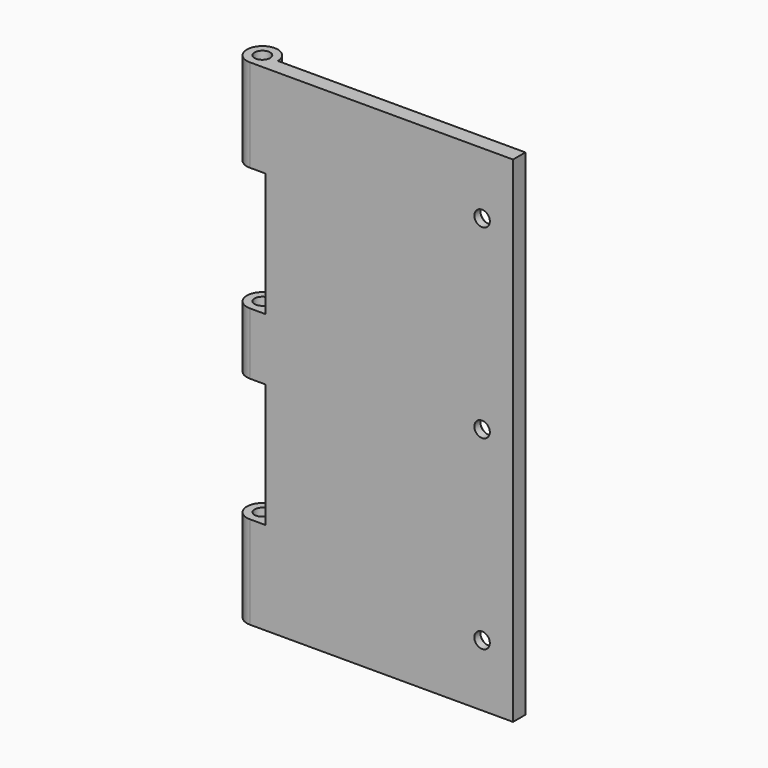
from build123d import *

# Parameters (mm, degrees)
F0_W           = 50.8
F0_H           = 101.6
F1_DEPTH       = 3.175
F2_W           = 3.175
F2_H           = 12.7
F2_H_2         = 19.05
F3_DEPTH       = 6.35
F5_DEPTH       = 101.601
F6_R           = 1.5875
F7_DEPTH       = 101.601
F9_D           = 3.175
F9_CSINK_D     = 6.35
F9_CSINK_ANGLE = 90


with BuildPart() as f1:
    # F0 (on Front) → F1 (new body)
    with BuildSketch(Plane.XZ):
        Rectangle(F0_W, F0_H)
    extrude(amount=F1_DEPTH)

    # F2 (on face) → F3 (join)
    with BuildSketch(Plane(origin=(-25.4, 0, 0), x_dir=(0, -1, 0), z_dir=(-1, 0, 0))):
        with Locations((-1.5875, 0)):
            Rectangle(F2_W, F2_H)
        with Locations((-1.5875, -41.275)):
            Rectangle(F2_W, F2_H_2)
        with Locations((1.5875, 41.275)):
            Rectangle(F2_W, F2_H_2)
        with Locations((1.5875, -41.275)):
            Rectangle(F2_W, F2_H_2)
        with Locations((1.5875, 0)):
            Rectangle(F2_W, F2_H)
        with Locations((-1.5875, 41.275)):
            Rectangle(F2_W, F2_H_2)
    extrude(amount=F3_DEPTH)

    # F4 (on face) → F5 (cut, through all)
    with BuildSketch(Plane.XY.offset(50.8)):
        with BuildLine():
            ThreePointArc((-31.75, -3.5e-09), (-30.8200640315, 2.245064029), (-28.575, 3.175))
            Line((-28.575, 3.175), (-31.75, 3.175))
            Line((-31.75, 3.175), (-31.75, -3.5e-09))
        make_face()
        with BuildLine():
            ThreePointArc((-28.575, 3.175), (-26.3299359697, 2.2450640303), (-25.4, 0))
            Line((-25.4, 0), (-25.4, 3.175))
            Line((-25.4, 3.175), (-28.575, 3.175))
        make_face()
        with BuildLine():
            Line((-31.75, -3.175), (-28.575, -3.175))
            ThreePointArc((-28.575, -3.175), (-30.820064029, -2.2450640315), (-31.75, -3.5e-09))
            Line((-31.75, -3.5e-09), (-31.75, -3.175))
        make_face()
    extrude(amount=-F5_DEPTH, mode=Mode.SUBTRACT)

    # F6 (on face) → F7 (cut, through all)
    with BuildSketch(Plane.XY.offset(50.8)):
        with Locations((-28.575, 0)):
            Circle(F6_R)
    extrude(amount=-F7_DEPTH, mode=Mode.SUBTRACT)

    # F9 (through all)
    with Locations(Plane(origin=(0, 0, 0), x_dir=(-1, 0, 0), z_dir=(0, 1, 0))):
        with Locations((-19.05, 38.1), (-19.05, 0), (-19.05, -38.1)):
            CounterSinkHole(F9_D / 2, F9_CSINK_D / 2, counter_sink_angle=F9_CSINK_ANGLE)


solid = f1.part
